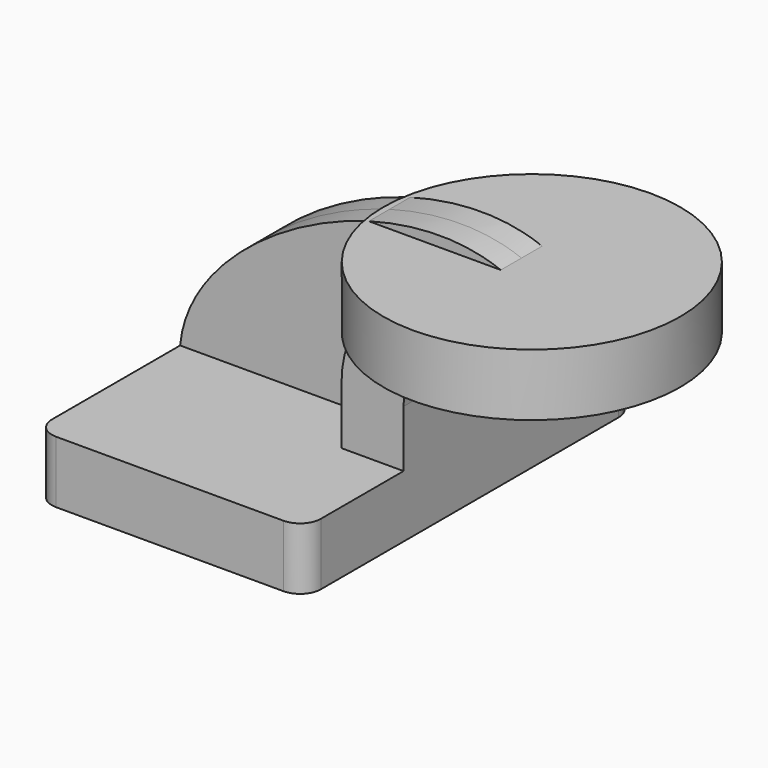
from build123d import *

# Parameters (mm, degrees)
F1_DEPTH = 63.5
F2_DEPTH = 25.4
F3_DEPTH = 7.9375
F0_W     = 45.5656475117
F0_H     = 19.05
F5_R     = 6.35


with BuildPart() as f1:
    # F0 (on Front) → F1 (new body, symmetric)
    with BuildSketch(Plane.XZ):
        Polygon((22.225, 9.525), (-41.275, 9.525), (-41.275, -9.525), (41.275, -9.525), (41.275, 9.525), align=None)
    extrude(amount=F1_DEPTH, both=True)

    # F0 (on Front) → F2 (join, symmetric)
    with BuildSketch(Plane.XZ):
        with BuildLine():
            Line((22.225, 27.0002), (22.225, 9.525))
            Line((22.225, 9.525), (41.275, 9.525))
            Line((41.275, 9.525), (41.275, 27.0002))
            ThreePointArc((41.275, 27.0002), (45.9246798487, 38.2255201513), (57.15, 42.8752))
            Line((57.15, 42.8752), (60.325, 42.8752))
            Line((60.325, 42.8752), (60.325, 61.9252))
            Line((60.325, 61.9252), (57.15, 61.9252))
            ThreePointArc((57.15, 61.9252), (32.4542956671, 51.6959043329), (22.225, 27.0002))
        make_face()
    extrude(amount=F2_DEPTH, both=True)

    # F0 (on Front) → F3 (join, symmetric)
    with BuildSketch(Plane.XZ):
        with BuildLine():
            add(Edge.make_bspline(
                [(-41.275, 9.525), (-38.2011030893, 43.7511456965), (22.4494743774, 75.5444682119), (57.15, 61.9252)],
                knots=[0, 0, 0, 0, 111.5045361635, 111.5045361635, 111.5045361635, 111.5045361635], degree=3))
            Line((-41.275, 9.525), (22.225, 9.525))
            Line((22.225, 9.525), (22.225, 27.0002))
            ThreePointArc((22.225, 27.0002), (32.4542956671, 51.6959043329), (57.15, 61.9252))
        make_face()
    extrude(amount=F3_DEPTH, both=True)

    # F0 (on Front) → F4 (revolve)
    with BuildSketch(Plane.XZ):
        with Locations((83.1078237558, 52.4002)):
            Rectangle(F0_W, F0_H)
    revolve(axis=Axis((60.325, 0, 52.3875), (0, 0, 1)))

    # F5
    f5_edges = [f1.edges().sort_by_distance(p)[0] for p in [
        (41.275, -63.5, 0),
        (-41.275, -63.5, 0),
        (41.275, 63.5, 0),
        (-41.275, 63.5, 0),
    ]]
    fillet(f5_edges, radius=F5_R)


solid = f1.part
